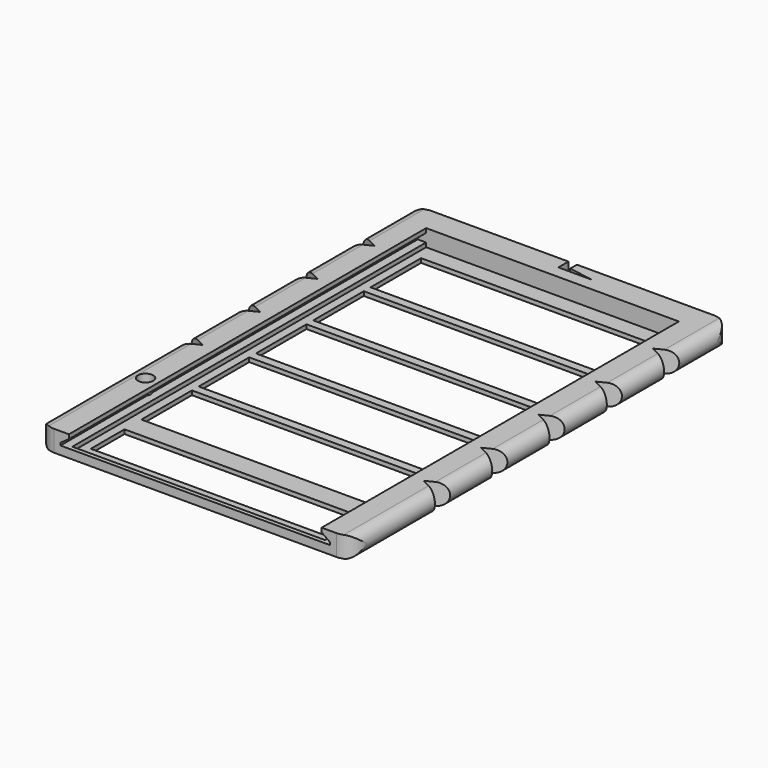
from build123d import *

# Parameters (mm, degrees)
PAD_DEPTH       = 112
SKETCH001_W     = 56
SKETCH001_H     = 10
SKETCH001_H_2   = 15
POCKET_DEPTH    = 5.001
POCKET001_DEPTH = 106
SKETCH003_R     = 1.25
POCKET002_DEPTH = 5.001
POCKET003_DEPTH = 5.001
SKETCH005_R     = 1.8
POCKET004_DEPTH = 2
SKETCH006_W     = 60
SKETCH006_H     = 1
PAD001_DEPTH    = 1


with BuildPart() as part:
    # Sketch → Pad (new body)
    with BuildSketch(Plane.XZ):
        with BuildLine():
            ThreePointArc((-35, 5), (-37.5, 2.5), (-35, 0))
            Line((-35, 0), (35, 0))
            ThreePointArc((35, 0), (37.5, 2.5), (35, 5))
            Line((-35, 5), (35, 5))
        make_face()
    extrude(amount=PAD_DEPTH)

    # Sketch001 (on DatumPlane) → Pocket (cut, through all)
    with BuildSketch(Plane(origin=(0, 0, 5), x_dir=(-1, 0, 0), z_dir=(0, 0, 1))):
        with Locations((0, 103)):
            Rectangle(SKETCH001_W, SKETCH001_H)
        with Locations((0, 85.5)):
            Rectangle(SKETCH001_W, SKETCH001_H_2)
        with Locations((0, 68.5)):
            Rectangle(SKETCH001_W, SKETCH001_H_2)
        with Locations((0, 51.5)):
            Rectangle(SKETCH001_W, SKETCH001_H_2)
        with Locations((0, 34.5)):
            Rectangle(SKETCH001_W, SKETCH001_H_2)
        with Locations((0, 17.5)):
            Rectangle(SKETCH001_W, SKETCH001_H_2)
    extrude(amount=-POCKET_DEPTH, mode=Mode.SUBTRACT)

    # Sketch002 (on DatumPlane) → Pocket001 (cut)
    with BuildSketch(Plane.XZ.offset(112)):
        Polygon((-30, 9), (30, 9), (30, 4), (32, 2.6), (32, 2), (30, 2), (30, 1), (-30, 1), (-30, 2), (-32, 2), (-32, 2.6), (-30, 4), align=None)
    extrude(amount=-POCKET001_DEPTH, mode=Mode.SUBTRACT)

    # Sketch003 (on DatumPlane) → Pocket002 (cut, through all)
    with BuildSketch(Plane(origin=(0, 0, 5), x_dir=(-1, 0, 0), z_dir=(0, 0, 1))):
        with Locations((33, 85.5)):
            Circle(SKETCH003_R)
        Polygon((-38, 20), (-33, 17.5), (-38, 15), align=None)
        Polygon((-38, 32), (-33, 34.5), (-38, 37), align=None)
        Polygon((38, 20), (33, 17.5), (38, 15), align=None)
        Polygon((-38, 54), (-38, 49), (-33, 51.5), align=None)
        Polygon((-38, 71), (-38, 66), (-33, 68.5), align=None)
        Polygon((-38, 88), (-38, 83), (-33, 85.5), align=None)
        Polygon((38, 32), (38, 37), (33, 34.5), align=None)
        Polygon((38, 49), (38, 54), (33, 51.5), align=None)
        Polygon((38, 66), (38, 71), (33, 68.5), align=None)
        Polygon((-1, 0), (1, 0), (1, 3), (-7, 3), (-1, 2), align=None)
    extrude(amount=-POCKET002_DEPTH, mode=Mode.SUBTRACT)

    # Sketch004 (on DatumPlane) → Pocket003 (cut, through all)
    with BuildSketch(Plane(origin=(0, 0, 0), x_dir=(1, 0, 0), z_dir=(0, 0, -1))):
        with BuildLine():
            ThreePointArc((-37.5, 4), (-36.328427, 1.171573), (-33.5, 0))
            Line((-37.5, 0), (-33.5, 0))
            Line((-37.5, 4), (-37.5, 0))
        make_face()
        with BuildLine():
            ThreePointArc((33.5, 0), (36.328427, 1.171573), (37.5, 4))
            Line((37.5, 0), (37.5, 4))
            Line((33.5, 0), (37.5, 0))
        make_face()
        with BuildLine():
            ThreePointArc((-33.5, 112), (-36.328427, 110.828427), (-37.5, 108))
            Line((-37.5, 112), (-37.5, 108))
            Line((-33.5, 112), (-37.5, 112))
        make_face()
        with BuildLine():
            ThreePointArc((37.5, 108), (36.328427, 110.828427), (33.5, 112))
            Line((33.5, 112), (37.5, 112))
            Line((37.5, 112), (37.5, 108))
        make_face()
    extrude(amount=-POCKET003_DEPTH, mode=Mode.SUBTRACT)

    # Sketch005 (on DatumPlane) → Pocket004 (cut)
    with BuildSketch(Plane(origin=(0, 0, 5), x_dir=(-1, 0, 0), z_dir=(0, 0, 1))):
        with Locations((33, 85.5)):
            Circle(SKETCH005_R)
    extrude(amount=-POCKET004_DEPTH, mode=Mode.SUBTRACT)

    # Sketch006 (on DatumPlane) → Pad001 (join)
    with BuildSketch(Plane(origin=(0, 0, 1), x_dir=(-1, 0, 0), z_dir=(0, 0, 1))):
        with Locations((0, 111.5)):
            Rectangle(SKETCH006_W, SKETCH006_H)
    extrude(amount=PAD001_DEPTH)


solid = part.part
